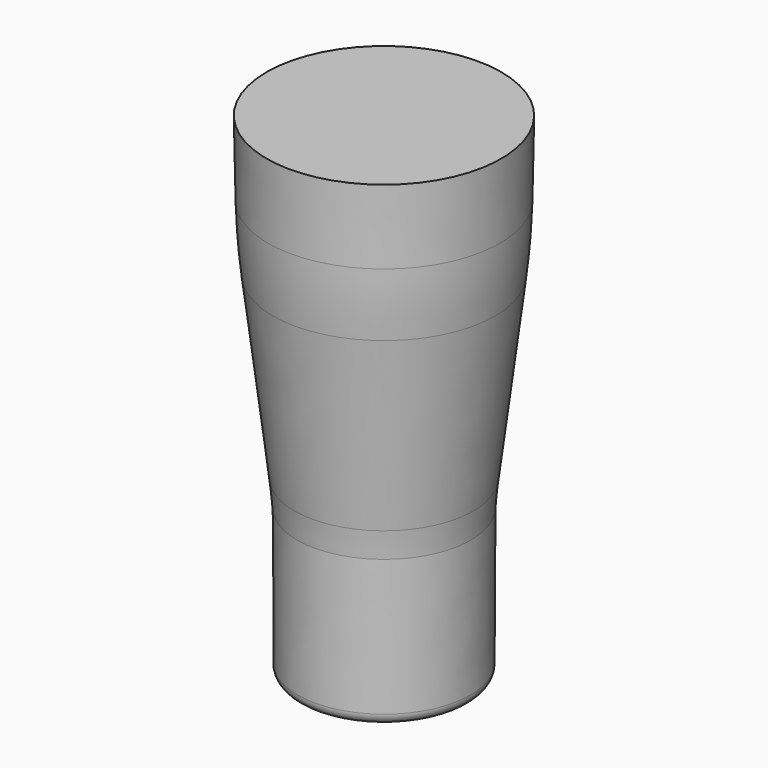
from build123d import *


with BuildPart() as f1:
    # F0 (on Front) → F1 (revolve)
    with BuildSketch(Plane.XZ):
        with BuildLine():
            Line((-23.352308, -71.744622), (-0.03937, -71.744622))
            Line((-0.03937, -71.744622), (-0.03937, 81.376541))
            Line((-0.03937, 81.376541), (-36.439535, 81.376541))
            Line((-36.439535, 81.376541), (-36.008733, 58.115944))
            ThreePointArc((-36.008733, 58.115944), (-35.502118, 47.927239), (-34.516567, 37.773665))
            Line((-34.516567, 37.773665), (-27.814351, -17.669398))
            ThreePointArc((-27.814351, -17.669398), (-27.377193, -21.763361), (-27.054191, -25.867909))
            Line((-27.054191, -25.867909), (-26.847115, -68.266842))
            ThreePointArc((-26.847115, -68.266842), (-25.817497, -70.727032), (-23.352308, -71.744622))
        make_face()
    revolve(axis=Axis((-0.03937, 0, 4.815959), (0, 0, -1)))


solid = f1.part
